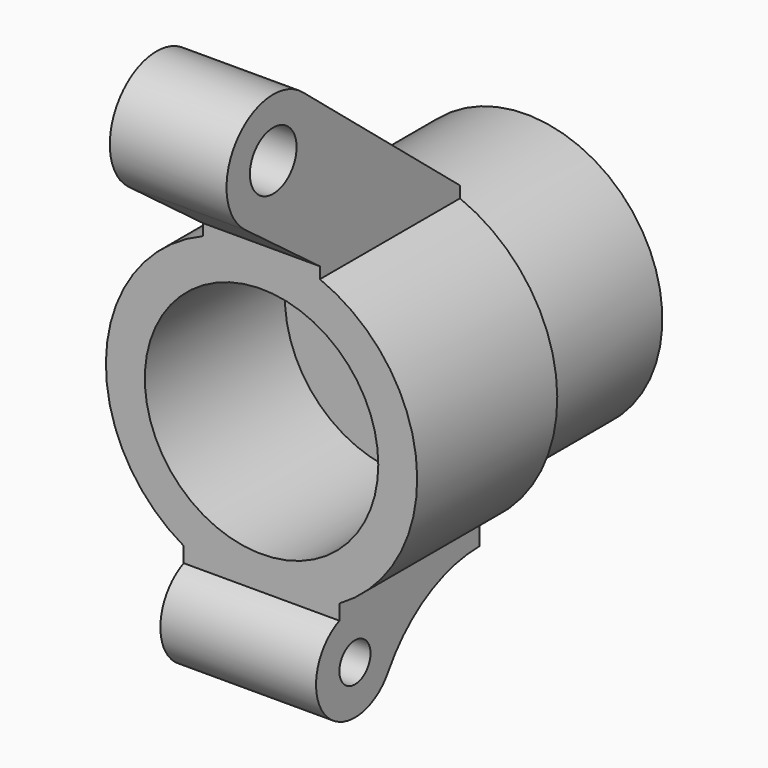
from build123d import *

# Parameters (mm, degrees)
F0_R     = 6
F1_DEPTH = 4.5
F2_R     = 7
F2_R_2   = 2
F3_DEPTH = 8
F4_R     = 1.5
F5_DEPTH = 3
F6_R     = 1
F7_DEPTH = 4


with BuildPart() as f1:
    # F0 (on Front) → F1 (new body, symmetric)
    with BuildSketch(Plane.XZ):
        with BuildLine():
            ThreePointArc((-8, 0), (0, -8), (8, 0))
            ThreePointArc((8, 0), (0, 8), (-8, 0))
        make_face()
        Circle(F0_R, mode=Mode.SUBTRACT)
    extrude(amount=F1_DEPTH, both=True)

    # F2 (on face) → F3 (join)
    with BuildSketch(Plane(origin=(0, 4.5, 0), x_dir=(-1, 0, 0), z_dir=(0, 1, 0))):
        Circle(F2_R)
        Circle(F2_R_2, mode=Mode.SUBTRACT)
    extrude(amount=F3_DEPTH)

    # F4 (on Right) → F5 (join, symmetric)
    with BuildSketch(Plane.YZ):
        with BuildLine():
            Line((4.5, 8), (-5.5923303169, 16.3153393661))
            ThreePointArc((-5.5923303169, 16.3153393661), (-9.8582842332, 15.8543180621), (-9.3, 11.6))
            Line((-9.3, 11.6), (-4.5, 8))
            Line((-4.5, 8), (-4.5, 6))
            Line((-4.5, 6), (4.5, 6))
            Line((4.5, 6), (4.5, 8))
        make_face()
        with Locations((-7.5, 14)):
            Circle(F4_R, mode=Mode.SUBTRACT)
    extrude(amount=F5_DEPTH, both=True)

    # F6 (on Right) → F7 (join, symmetric)
    with BuildSketch(Plane.YZ):
        with BuildLine():
            Line((-4.5, -6), (-4.5, -7.7087121525))
            ThreePointArc((-4.5, -7.7087121525), (-5.3825642408, -11.6449777747), (-1.3635014837, -11.2982195846))
            ThreePointArc((-1.3635014837, -11.2982195846), (1.1362631614, -8.8811345092), (4.5, -8))
            Line((4.5, -8), (4.5, -6))
            Line((4.5, -6), (-4.5, -6))
        make_face()
        with Locations((-3.5, -10)):
            Circle(F6_R, mode=Mode.SUBTRACT)
    extrude(amount=F7_DEPTH, both=True)


solid = f1.part
